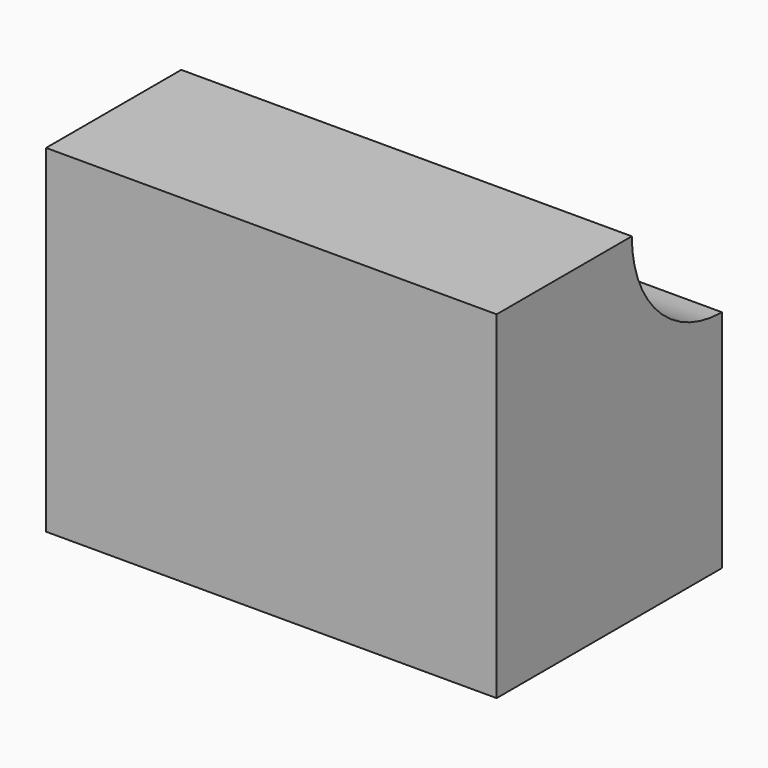
from build123d import *

# Parameters (mm, degrees)
F0_W     = 101.6
F0_H     = 76.2
F1_DEPTH = 63.5
F2_W     = 50.8
F2_H     = 38.1
F3_DEPTH = 25.4
F5_DEPTH = 101.601


with BuildPart() as f1:
    # F0 (on Front) → F1 (new body)
    with BuildSketch(Plane.XZ):
        with Locations((9.285491, -17.560551)):
            Rectangle(F0_W, F0_H)
    extrude(amount=F1_DEPTH)

    # F2 (on face) → F3 (cut)
    with BuildSketch(Plane(origin=(0, 0, 0), x_dir=(-1, 0, 0), z_dir=(0, 1, 0))):
        with Locations((-9.285491, 1.489449)):
            Rectangle(F2_W, F2_H)
    extrude(amount=-F3_DEPTH, mode=Mode.SUBTRACT)

    # F4 (on face) → F5 (cut, through all)
    with BuildSketch(Plane(origin=(-41.514509, 0, 0), x_dir=(0, -1, 0), z_dir=(-1, 0, 0))):
        with BuildLine():
            Line((0, 20.539449), (0, -4.860551))
            ThreePointArc((0, -4.860551), (17.960512, 2.578937), (25.4, 20.539449))
            Line((25.4, 20.539449), (0, 20.539449))
        make_face()
    extrude(amount=-F5_DEPTH, mode=Mode.SUBTRACT)


solid = f1.part
